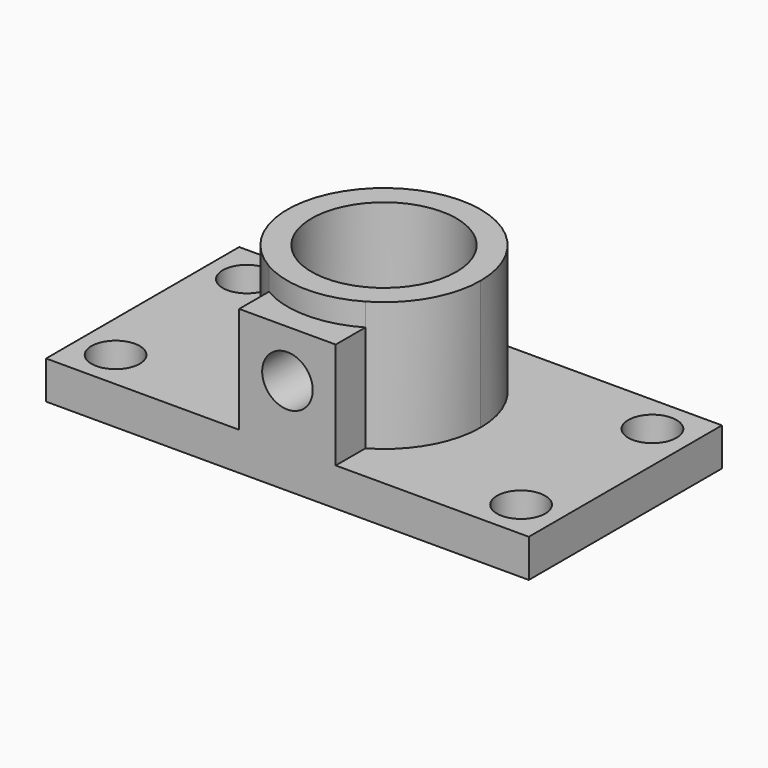
from build123d import *

# Parameters (mm, degrees)
F0_R     = 6.35
F1_DEPTH = 10
F0_R_2   = 19.05
F2_DEPTH = 44
F3_DEPTH = 38
F4_R     = 6.6505969319
F5_DEPTH = 14.8986119061


with BuildPart() as f1:
    # F0 (on Top) → F1 (new body)
    with BuildSketch(Plane.XY):
        with BuildLine():
            Line((63.5, 31.75), (-63.5, 31.75))
            Line((-63.5, 31.75), (-63.5, -31.75))
            Line((-63.5, -31.75), (-12.7, -31.75))
            Line((-12.7, -31.75), (-12.7, -21.9970452561))
            ThreePointArc((-12.7, -21.9970452561), (-12.7, 21.9970452561), (25.4, 0))
            ThreePointArc((25.4, 0), (21.9970452561, -12.7), (12.7, -21.9970452561))
            Line((12.7, -21.9970452561), (12.7, -31.75))
            Line((12.7, -31.75), (63.5, -31.75))
            Line((63.5, -31.75), (63.5, 31.75))
        make_face()
        with Locations((-53.34, -21.59)):
            Circle(F0_R, mode=Mode.SUBTRACT)
        with Locations((53.34, -21.59)):
            Circle(F0_R, mode=Mode.SUBTRACT)
        with Locations((-53.34, 21.59)):
            Circle(F0_R, mode=Mode.SUBTRACT)
        with Locations((53.34, 21.59)):
            Circle(F0_R, mode=Mode.SUBTRACT)
    extrude(amount=F1_DEPTH)

    # F0 (on Top) → F2 (join)
    with BuildSketch(Plane.XY):
        with BuildLine():
            ThreePointArc((25.4, 0), (-12.7, 21.9970452561), (-12.7, -21.9970452561))
            ThreePointArc((-12.7, -21.9970452561), (0, -25.4), (12.7, -21.9970452561))
            ThreePointArc((12.7, -21.9970452561), (21.9970452561, -12.7), (25.4, 0))
        make_face()
        Circle(F0_R_2, mode=Mode.SUBTRACT)
    extrude(amount=F2_DEPTH)

    # F0 (on Top) → F3 (join)
    with BuildSketch(Plane.XY):
        with BuildLine():
            Line((-12.7, -21.9970452561), (-12.7, -31.75))
            Line((-12.7, -31.75), (12.7, -31.75))
            Line((12.7, -31.75), (12.7, -21.9970452561))
            ThreePointArc((12.7, -21.9970452561), (0, -25.4), (-12.7, -21.9970452561))
        make_face()
    extrude(amount=F3_DEPTH)

    # F4 (on face) → F5 (cut, up to face)
    with BuildSketch(Plane.XZ.offset(31.75)):
        with Locations((0, 25.4719480872)):
            Circle(F4_R)
    extrude(amount=-F5_DEPTH, mode=Mode.SUBTRACT)


solid = f1.part
